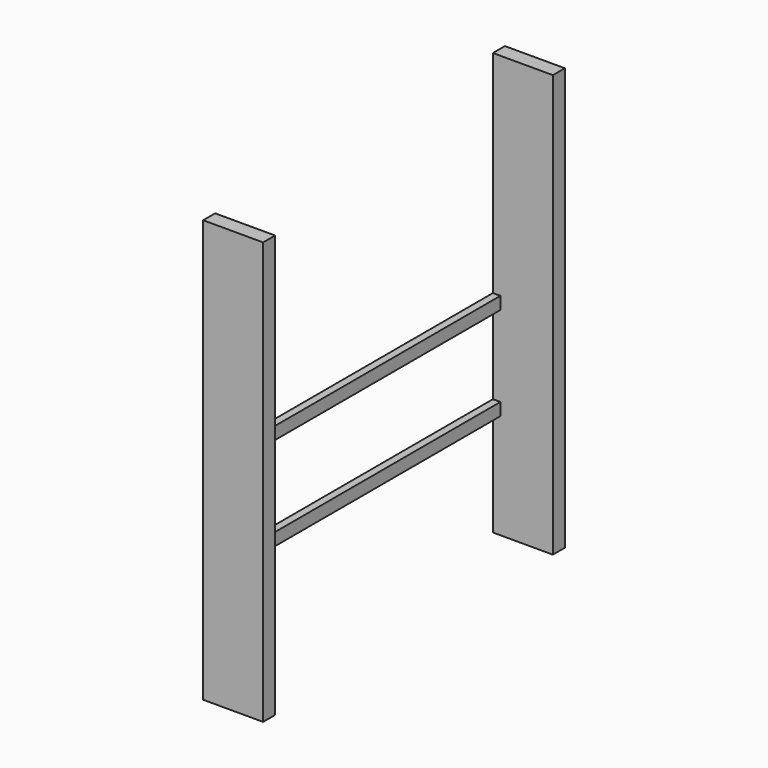
from build123d import *

# Parameters (mm, degrees)
F0_W     = 1765.3
F0_H     = 63.5
F1_DEPTH = 38.1
F2_W     = 76.2
F2_H     = 2146.3
F3_DEPTH = 304.8


with BuildPart() as f1:
    # F0 (on Right) → F1 (new body)
    with BuildSketch(Plane.YZ):
        with Locations((242.372674, -755.620822)):
            Rectangle(F0_W, F0_H)
        with Locations((242.372674, -1230.655746)):
            Rectangle(F0_W, F0_H)
    extrude(amount=F1_DEPTH)


with BuildPart() as f3:
    # F2 (on face) → F3 (new body)
    with BuildSketch(Plane(origin=(0, 0, 0), x_dir=(0, -1, 0), z_dir=(-1, 0, 0))):
        with Locations((678.377326, -722.655746)):
            Rectangle(F2_W, F2_H)
        with Locations((-1163.122674, -722.655746)):
            Rectangle(F2_W, F2_H)
    extrude(amount=-F3_DEPTH)


solid = Compound([f1.part, f3.part])
